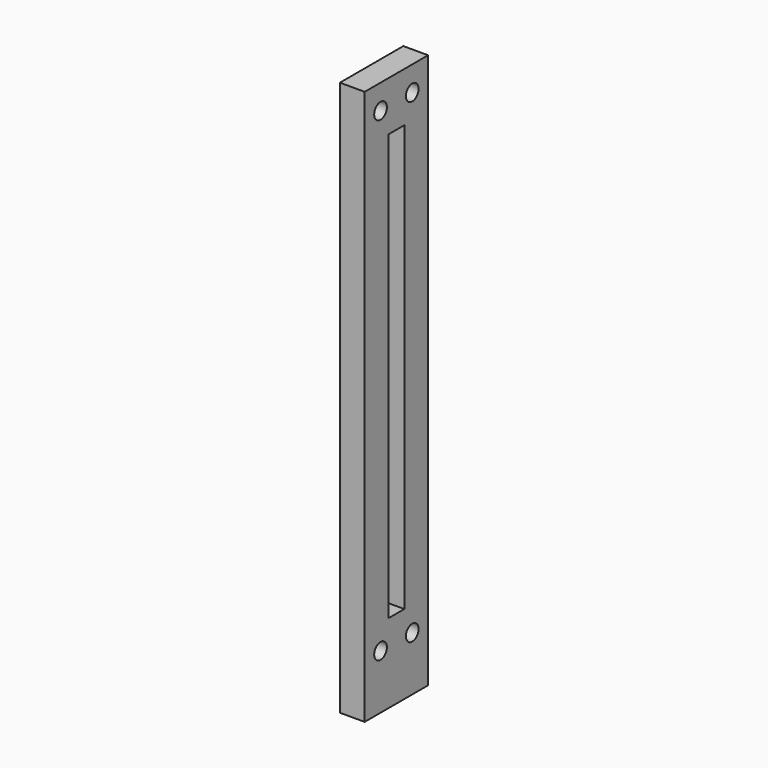
from build123d import *

# Parameters (mm, degrees)
CYLINDER075_R           = 1.6
CYLINDER075_DEPTH       = 40
CYLINDER075_PITCH_ANGLE = 90
CYLINDER065_R           = 1.6
CYLINDER065_DEPTH       = 40
CYLINDER065_PITCH_ANGLE = 90
CYLINDER064_R           = 1.6
CYLINDER064_DEPTH       = 40
CYLINDER064_PITCH_ANGLE = 90
CYLINDER074_R           = 1.6
CYLINDER074_DEPTH       = 40
CYLINDER074_PITCH_ANGLE = 90
CYLINDER072_R           = 1.6
CYLINDER072_DEPTH       = 40
CYLINDER072_PITCH_ANGLE = 90
CYLINDER071_R           = 1.6
CYLINDER071_DEPTH       = 40
CYLINDER071_PITCH_ANGLE = 90
BOX021_W                = 10
BOX021_H                = 4
BOX021_DEPTH            = 86
BOX020_W                = 5
BOX020_H                = 16
BOX020_DEPTH            = 112


with BuildPart() as cylinder353:
    # Cylinder075 → Cylinder075 (new body)
    with BuildSketch(Plane.XY):
        Circle(CYLINDER075_R)
    extrude(amount=CYLINDER075_DEPTH)


with BuildPart() as cylinder353_1:
    # Cylinder075 pitch: moved
    add(cylinder353.part.rotate(Axis((0, 0, 0), (0, 1, 0)), CYLINDER075_PITCH_ANGLE))


with BuildPart() as cylinder353_2:
    # Cylinder075 placement: moved
    add(cylinder353_1.part.moved(Location((-67, 7, 126))))


with BuildPart() as cylinder343:
    # Cylinder065 → Cylinder065 (new body)
    with BuildSketch(Plane.XY):
        Circle(CYLINDER065_R)
    extrude(amount=CYLINDER065_DEPTH)


with BuildPart() as cylinder343_1:
    # Cylinder065 pitch: moved
    add(cylinder343.part.rotate(Axis((0, 0, 0), (0, 1, 0)), CYLINDER065_PITCH_ANGLE))


with BuildPart() as cylinder343_2:
    # Cylinder065 placement: moved
    add(cylinder343_1.part.moved(Location((-67, -15, 30))))


with BuildPart() as rocker_screw_holes_d:
    # Cylinder064 → Cylinder064 (new body)
    with BuildSketch(Plane.XY):
        Circle(CYLINDER064_R)
    extrude(amount=CYLINDER064_DEPTH)


with BuildPart() as rocker_screw_holes_d_1:
    # Cylinder064 pitch: moved
    add(rocker_screw_holes_d.part.rotate(Axis((0, 0, 0), (0, 1, 0)), CYLINDER064_PITCH_ANGLE))


with BuildPart() as rocker_screw_holes_d_2:
    # Cylinder064 placement: moved
    add(rocker_screw_holes_d_1.part.moved(Location((-87, -7, 30))))

    # Fusion042: union Cylinder343
    add(cylinder343_2.part)


with BuildPart() as rocker_screw_holes_d_3:
    # Fusion042 placement: moved
    add(rocker_screw_holes_d_2.part.moved(Location((0, 0, 96))))

    # Fusion050: union Cylinder353
    add(cylinder353_2.part)


with BuildPart() as cylinder352:
    # Cylinder074 → Cylinder074 (new body)
    with BuildSketch(Plane.XY):
        Circle(CYLINDER074_R)
    extrude(amount=CYLINDER074_DEPTH)


with BuildPart() as cylinder352_1:
    # Cylinder074 pitch: moved
    add(cylinder352.part.rotate(Axis((0, 0, 0), (0, 1, 0)), CYLINDER074_PITCH_ANGLE))


with BuildPart() as cylinder352_2:
    # Cylinder074 placement: moved
    add(cylinder352_1.part.moved(Location((-67, 7, 30))))


with BuildPart() as cylinder350:
    # Cylinder072 → Cylinder072 (new body)
    with BuildSketch(Plane.XY):
        Circle(CYLINDER072_R)
    extrude(amount=CYLINDER072_DEPTH)


with BuildPart() as cylinder350_1:
    # Cylinder072 pitch: moved
    add(cylinder350.part.rotate(Axis((0, 0, 0), (0, 1, 0)), CYLINDER072_PITCH_ANGLE))


with BuildPart() as cylinder350_2:
    # Cylinder072 placement: moved
    add(cylinder350_1.part.moved(Location((-67, -15, 30))))


with BuildPart() as rocker_screw_holes_c:
    # Cylinder071 → Cylinder071 (new body)
    with BuildSketch(Plane.XY):
        Circle(CYLINDER071_R)
    extrude(amount=CYLINDER071_DEPTH)


with BuildPart() as rocker_screw_holes_c_1:
    # Cylinder071 pitch: moved
    add(rocker_screw_holes_c.part.rotate(Axis((0, 0, 0), (0, 1, 0)), CYLINDER071_PITCH_ANGLE))


with BuildPart() as rocker_screw_holes_c_2:
    # Cylinder071 placement: moved
    add(rocker_screw_holes_c_1.part.moved(Location((-87, -7, 30))))

    # Fusion047: union Cylinder350
    add(cylinder350_2.part)

    # Fusion049: union Cylinder352
    add(cylinder352_2.part)


with BuildPart() as string_hole001:
    # Box021 → Box021 (new body)
    with BuildSketch(Plane(origin=(-46, -13, 35), x_dir=(1, 0, 0), z_dir=(0, 0, 1))):
        with Locations((5, 2)):
            Rectangle(BOX021_W, BOX021_H)
    extrude(amount=BOX021_DEPTH)


with BuildPart() as string_slot_c:
    # Box020 → Box020 (new body)
    with BuildSketch(Plane(origin=(-43, -19, 19), x_dir=(1, 0, 0), z_dir=(0, 0, 1))):
        with Locations((2.5, 8)):
            Rectangle(BOX020_W, BOX020_H)
    extrude(amount=BOX020_DEPTH)

    # Cut031: cut string-hole001
    add(string_hole001.part, mode=Mode.SUBTRACT)


with BuildPart() as string_slot_c_1:
    # Cut031 placement: moved
    add(string_slot_c.part.moved(Location((-11, 0, 0))))

    # Cut041: cut rocker-screw-holes-c
    add(rocker_screw_holes_c_2.part, mode=Mode.SUBTRACT)

    # Cut042: cut rocker-screw-holes-d
    add(rocker_screw_holes_d_3.part, mode=Mode.SUBTRACT)


solid = string_slot_c_1.part
